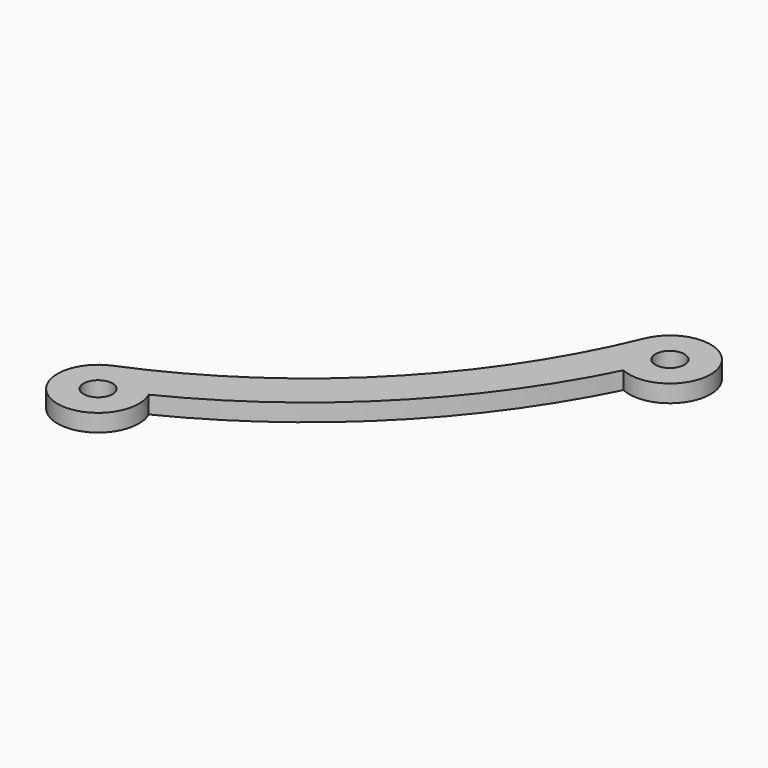
from build123d import *

# Parameters (mm, degrees)
SKETCH001_R = 2.5
PAD_DEPTH   = 3


with BuildPart() as part:
    # Sketch001 → Pad (new body)
    with BuildSketch(Plane(origin=(0, 0, 0), x_dir=(1, 0, 0), z_dir=(0, 0, -1))):
        with BuildLine():
            ThreePointArc((45.02147, 90.410548), (36.084716, 99.82444), (35.972243, 86.844676))
            ThreePointArc((86.844676, 35.972243), (66.468037, 66.468037), (35.972243, 86.844676))
            ThreePointArc((86.844676, 35.972243), (99.82444, 36.084716), (90.410548, 45.02147))
            ThreePointArc((90.410548, 45.02147), (71.417785, 71.417785), (45.02147, 90.410548))
        make_face()
        with Locations((38.651027, 93.311833)):
            Circle(SKETCH001_R, mode=Mode.SUBTRACT)
        with Locations((93.311833, 38.651027)):
            Circle(SKETCH001_R, mode=Mode.SUBTRACT)
    extrude(amount=PAD_DEPTH)


solid = part.part
